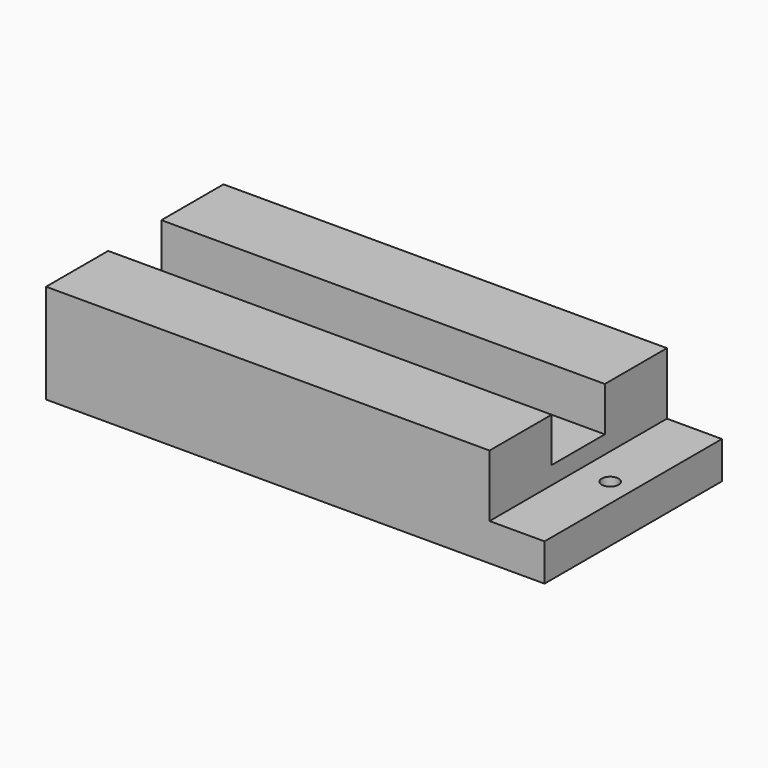
from build123d import *

# Parameters (mm, degrees)
F1_DEPTH = 63.5
F2_R     = 2.413
F3_DEPTH = 10.669
F4_W     = 19.05
F4_H     = 12.7
F5_DEPTH = 142.749


with BuildPart() as f1:
    # F0 (on Front) → F1 (new body)
    with BuildSketch(Plane.XZ):
        Polygon((-15.748, 28.448), (-142.748, 28.448), (-142.748, 0), (0, 0), (0, 10.668), (-15.748, 10.668), align=None)
    extrude(amount=F1_DEPTH)

    # F2 (on face) → F3 (cut, through all)
    with BuildSketch(Plane.XY.offset(10.668)):
        with Locations((-6.604, -31.75)):
            Circle(F2_R)
    extrude(amount=-F3_DEPTH, mode=Mode.SUBTRACT)

    # F4 (on face) → F5 (cut, through all)
    with BuildSketch(Plane(origin=(-142.748, 0, 0), x_dir=(0, -1, 0), z_dir=(-1, 0, 0))):
        with Locations((31.75, 22.098)):
            Rectangle(F4_W, F4_H)
    extrude(amount=-F5_DEPTH, mode=Mode.SUBTRACT)


solid = f1.part
